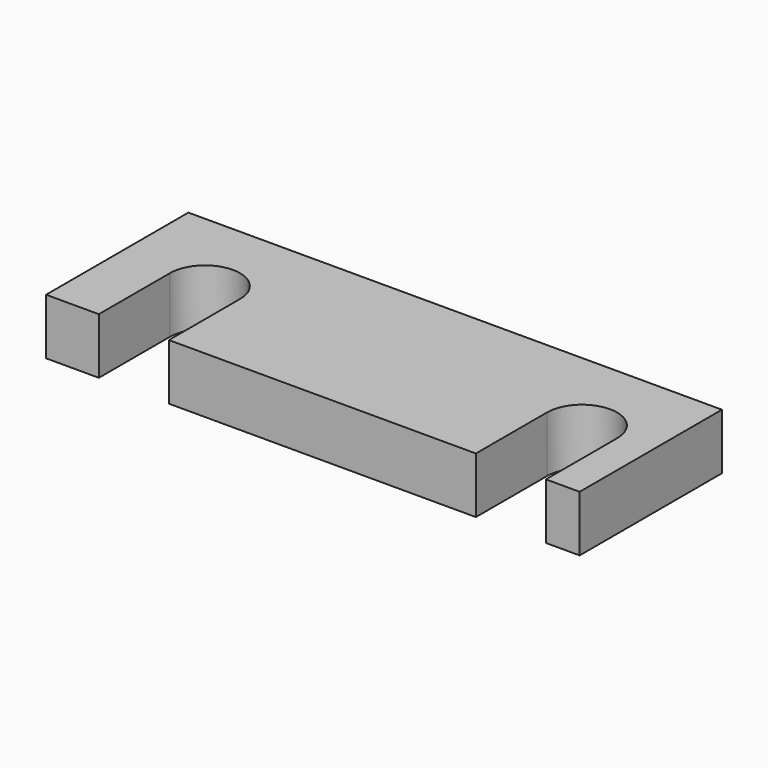
from build123d import *

# Parameters (mm, degrees)
F0_W     = 21.924
F0_H     = 6.35
F1_DEPTH = 4


with BuildPart() as f1:
    # F0 (on Top) → F1 (new body)
    with BuildSketch(Plane.XY):
        with BuildLine():
            ThreePointArc((-15.281758, 0), (-12.781758, 2.5), (-10.281758, 0))
            Line((-10.281758, 0), (11.642242, 0))
            ThreePointArc((11.642242, 0), (14.142242, 2.5), (16.642242, 0))
            Line((16.642242, 0), (16.642242, -6.35))
            Line((16.642242, -6.35), (19.05, -6.35))
            Line((19.05, -6.35), (19.05, 6.35))
            Line((19.05, 6.35), (-19.05, 6.35))
            Line((-19.05, 6.35), (-19.05, -6.35))
            Line((-19.05, -6.35), (-15.281758, -6.35))
            Line((-15.281758, -6.35), (-15.281758, 0))
        make_face()
        with Locations((0.680242, -3.175)):
            Rectangle(F0_W, F0_H)
    extrude(amount=F1_DEPTH)


solid = f1.part
